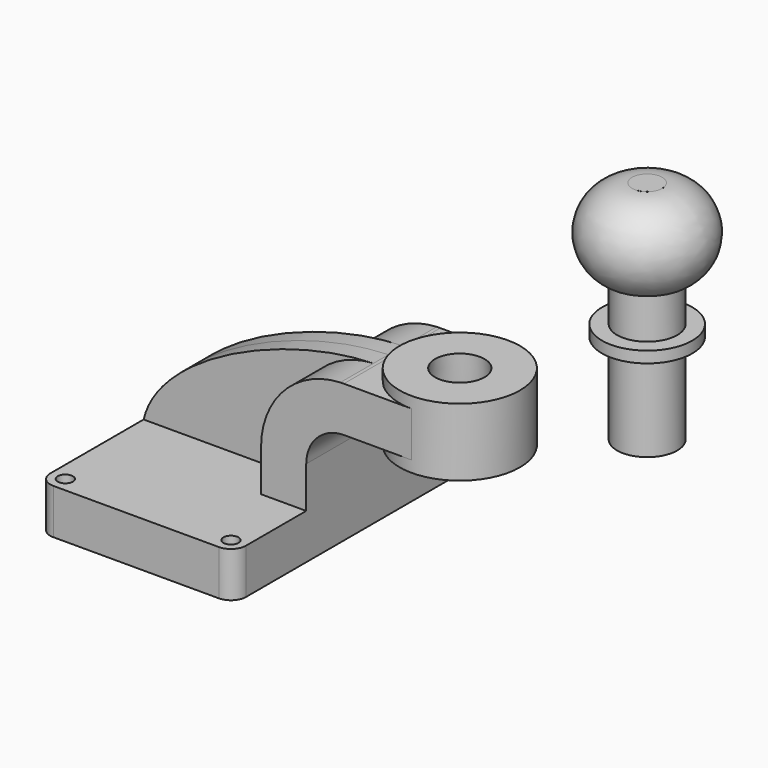
from build123d import *

# Parameters (mm, degrees)
F1_DEPTH = 63.5
F0_W     = 25.4
F0_H     = 19.05
F2_DEPTH = 25.4
F3_DEPTH = 7.9375
F5_R     = 6.35
F6_R     = 10.4277026359
F7_DEPTH = 76.201
F7_TAPER = -3
F9_D     = 6.35


with BuildPart() as f1:
    # F0 (on Front) → F1 (new body, symmetric)
    with BuildSketch(Plane.XZ):
        Polygon((-41.275, -8.4803864146), (41.275, -8.4803864146), (41.275, 10.5696135854), (22.225, 10.5696135854), (-41.275, 10.5696135854), align=None)
    extrude(amount=F1_DEPTH, both=True)

    # F0 (on Front) → F2 (join, symmetric)
    with BuildSketch(Plane.XZ):
        with BuildLine():
            Line((22.225, 10.5696135854), (41.275, 10.5696135854))
            Line((41.275, 10.5696135854), (41.275, 28.0448135854))
            ThreePointArc((41.275, 28.0448135854), (45.9246798487, 39.2701337367), (57.15, 43.9198135854))
            Line((57.15, 43.9198135854), (60.325, 43.9198135854))
            Line((60.325, 43.9198135854), (60.325, 62.9698135854))
            Line((60.325, 62.9698135854), (57.15, 62.9698135854))
            add(Edge.make_bspline(
                [(55.670826569, 62.9384759177), (56.1664980149, 62.9528020829), (56.6596018531, 62.963261742), (57.15, 62.9698135854)],
                knots=[110.0605103046, 110.0605103046, 110.0605103046, 110.0605103046, 111.5045361635, 111.5045361635, 111.5045361635, 111.5045361635], degree=3))
            ThreePointArc((55.670826569, 62.9384759177), (31.936751924, 52.2118933937), (22.225, 28.0448135854))
            Line((22.225, 28.0448135854), (22.225, 10.5696135854))
        make_face()
        with Locations((73.025, 53.4448135854)):
            Rectangle(F0_W, F0_H)
    extrude(amount=F2_DEPTH, both=True)

    # F0 (on Front) → F3 (join, symmetric)
    with BuildSketch(Plane.XZ):
        with BuildLine():
            add(Edge.make_bspline(
                [(-41.275, 10.5696135854), (-34.8028083987, 38.2935172536), (17.8918270147, 61.8465667659), (55.670826569, 62.9384759177)],
                knots=[0, 0, 0, 0, 110.0605103046, 110.0605103046, 110.0605103046, 110.0605103046], degree=3))
            Line((-41.275, 10.5696135854), (22.225, 10.5696135854))
            Line((22.225, 10.5696135854), (22.225, 28.0448135854))
            ThreePointArc((22.225, 28.0448135854), (31.936751924, 52.2118933937), (55.670826569, 62.9384759177))
        make_face()
    extrude(amount=F3_DEPTH, both=True)

    # F0 (on Front) → F4 (revolve)
    with BuildSketch(Plane.XZ):
        Polygon((85.725, 62.9698135854), (85.725, 43.9198135854), (85.725, 39.1446135854), (111.125, 39.1446135854), (111.125, 67.7196135854), (85.725, 67.7196135854), align=None)
    revolve(axis=Axis((85.725, 0, 53.4321135854), (0, 0, 1)))

    # F5
    f5_edges = [f1.edges().sort_by_distance(p)[0] for p in [
        (-41.275, -63.5, 1.044614),
        (41.275, -63.5, 1.044614),
        (41.275, 63.5, 1.044614),
        (-41.275, 63.5, 1.044614),
    ]]
    fillet(f5_edges, radius=F5_R)

    # F6 (on face) → F7 (cut, through all)
    with BuildSketch(Plane.XY.offset(67.7196135854)):
        with Locations((85.725, 0)):
            Circle(F6_R)
    extrude(amount=-F7_DEPTH, taper=F7_TAPER, mode=Mode.SUBTRACT)

    # F9 (through all)
    with Locations(Plane.XY.offset(10.5696135854)):
        with Locations((34.9249977589, -57.15), (-34.925, -57.15), (35.7827192911, 57.146779417), (-34.0672784677, 57.146779417)):
            Hole(F9_D / 2)


with BuildPart() as f11:
    # F10 (on Front) → F11 (revolve)
    with BuildSketch(Plane.XZ):
        with BuildLine():
            Line((164.7552926287, 162.2107950438), (164.7552926287, 66.9607950438))
            Line((164.7552926287, 66.9607950438), (177.4552926287, 66.9607950438))
            Line((177.4552926287, 66.9607950438), (177.4552926287, 105.0607950438))
            Line((177.4552926287, 105.0607950438), (183.8052926287, 105.0607950438))
            Line((183.8052926287, 105.0607950438), (183.8052926287, 109.8232950438))
            Line((183.8052926287, 109.8232950438), (177.4552926287, 109.8232950438))
            Line((177.4552926287, 109.8232950438), (177.4552926287, 126.7131795641))
            ThreePointArc((177.4552926287, 126.7131795641), (189.1324190967, 147.1158549306), (171.1052926287, 162.2038354438))
            Line((171.1052926287, 162.2038354438), (171.1052926287, 162.2107950438))
            Line((171.1052926287, 162.2107950438), (164.7552926287, 162.2107950438))
        make_face()
    revolve(axis=Axis((164.7552926287, 0, 114.5857950438), (0, 0, -1)))


solid = Compound([f1.part, f11.part])
